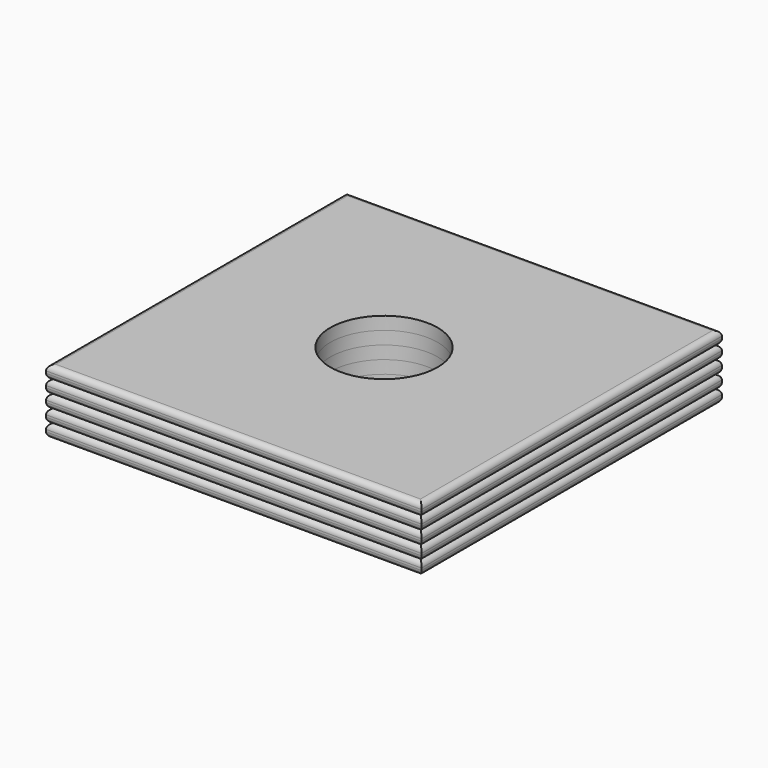
from build123d import *

# Parameters (mm, degrees)
F0_W     = 350
F0_H     = 350
F0_R     = 50
F1_DEPTH = 12
F2_R     = 5


with BuildPart() as f1:
    # F0 (on Top) → F1 (new body)
    with BuildSketch(Plane.XY):
        Rectangle(F0_W, F0_H)
        Circle(F0_R, mode=Mode.SUBTRACT)
    extrude(amount=F1_DEPTH)

    # F2
    f2_edges = [f1.edges().sort_by_distance(p)[0] for p in [
        (0, -175, 0),
        (175, 0, 0),
        (0, 175, 0),
        (-175, 0, 0),
        (-175, 0, 12),
        (0, -175, 12),
        (175, 0, 12),
        (0, 175, 12),
    ]]
    fillet(f2_edges, radius=F2_R)


with BuildPart() as f3_1:
    # F3: copy of F1
    add(f1.part.moved(Location((0, 0, 12))))


with BuildPart() as f4_1:
    # F4: copy of F3_1
    add(f3_1.part.moved(Location((0, 0, 12))))


with BuildPart() as f5_1:
    # F5: copy of F4_1
    add(f4_1.part.moved(Location((0, 0, 12))))


with BuildPart() as f6_1:
    # F6: copy of F5_1
    add(f5_1.part.moved(Location((0, 0, 12))))


solid = Compound([f1.part, f3_1.part, f4_1.part, f5_1.part, f6_1.part])
